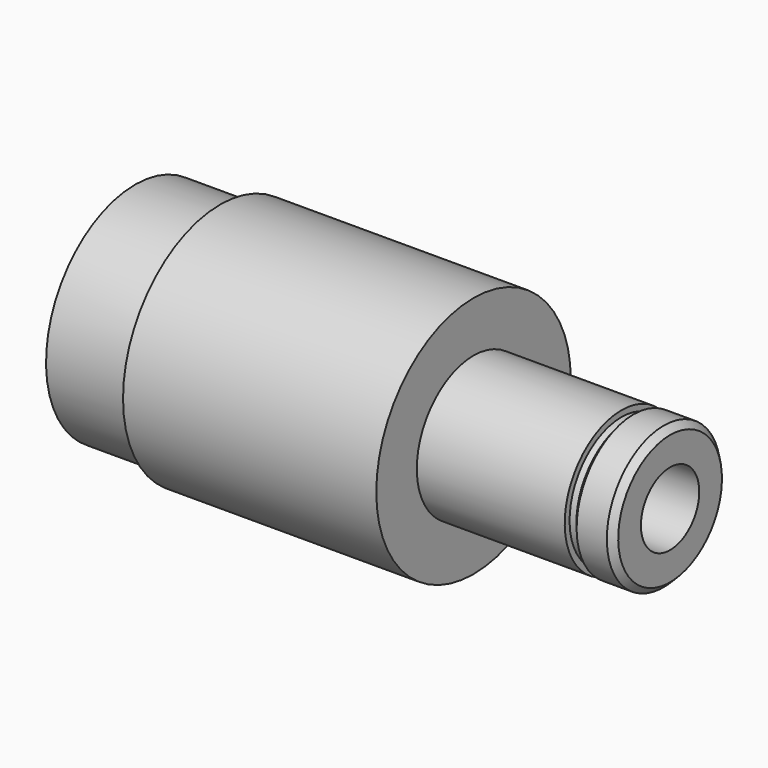
from build123d import *


with BuildPart() as f1:
    # F0 (on Front) → F1 (revolve)
    with BuildSketch(Plane.XZ):
        Polygon((-99, 27.5), (-120, 27.5), (-120, 22.3), (-33.588512, 9), (0, 9), (12, 9), (12, 16), (10.448793, 17.566422), (2.988417, 17.566422), (1.664803, 16), (0, 16), (0, 17.5), (-36.5, 17.5), (-36.5, 30), (-99, 30), align=None)
    revolve(axis=Axis((-41.004533, 0, 0), (1, 0, 0)))


solid = f1.part
